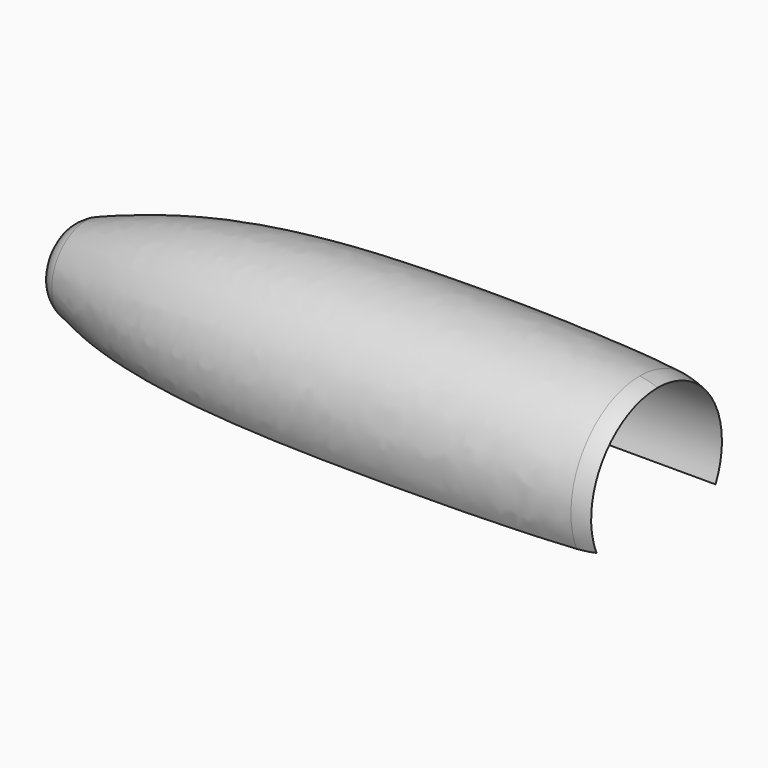
from build123d import *

# Parameters (mm, degrees)
F2_R     = 0.508
F4_R     = 0.6665750278
F5_DEPTH = 50.5968
F7_DEPTH = 65.532


with BuildPart() as f1:
    # F0 (on Front) → F1 (revolve)
    with BuildSketch(Plane.XZ):
        with BuildLine():
            add(Edge.make_bspline(
                [(58.6236616488, 31.3822813208), (58.8559509545, 31.4681745116), (59.3841653559, 31.6312865879), (60.2493623534, 31.7603513998), (61.3417281188, 31.7970548528), (62.7389503774, 31.7808864075), (63.3399161465, 31.7193522763), (63.6016569777, 31.6773552428)],
                knots=[0.0363465451, 0.0363465451, 0.0363465451, 0.0363465451, 0.1883952272, 0.3765715748, 0.5846592293, 0.8177136492, 1, 1, 1, 1], degree=3))
            ThreePointArc((58.6236616488, 31.3822813208), (58.5033171393, 31.2892027636), (58.4577533228, 31.1440464431))
            Line((58.4577533228, 31.1440464431), (58.4577533228, 31.035810709))
            Line((58.4577533228, 31.035810709), (63.6016569777, 31.035810709))
            Line((63.6016569777, 31.035810709), (63.6016569777, 31.6773552428))
        make_face()
    revolve(axis=Axis((61.050048098, 0, 31.035810709), (1, 0, 0)))

    # F2
    f2_edges = [f1.edges().sort_by_distance(p)[0] for p in [
        (63.601657, 0, 30.394266),
    ]]
    fillet(f2_edges, radius=F2_R)

    # F4 (on offset) → F5 (cut)
    with BuildSketch(Plane.YZ.offset(110.744)):
        with Locations((0, 31.0325212777)):
            Circle(F4_R)
    extrude(amount=-F5_DEPTH, mode=Mode.SUBTRACT)

    # F6 (on offset) → F7 (cut)
    with BuildSketch(Plane.YZ.offset(110.744)):
        Polygon((0.8756383788, 30.7551696897), (-0.7374619017, 30.7551696897), (-0.7374619017, 30.1285926253), (0.8625847986, 30.1285926253), align=None)
    extrude(amount=-F7_DEPTH, mode=Mode.SUBTRACT)


solid = f1.part
